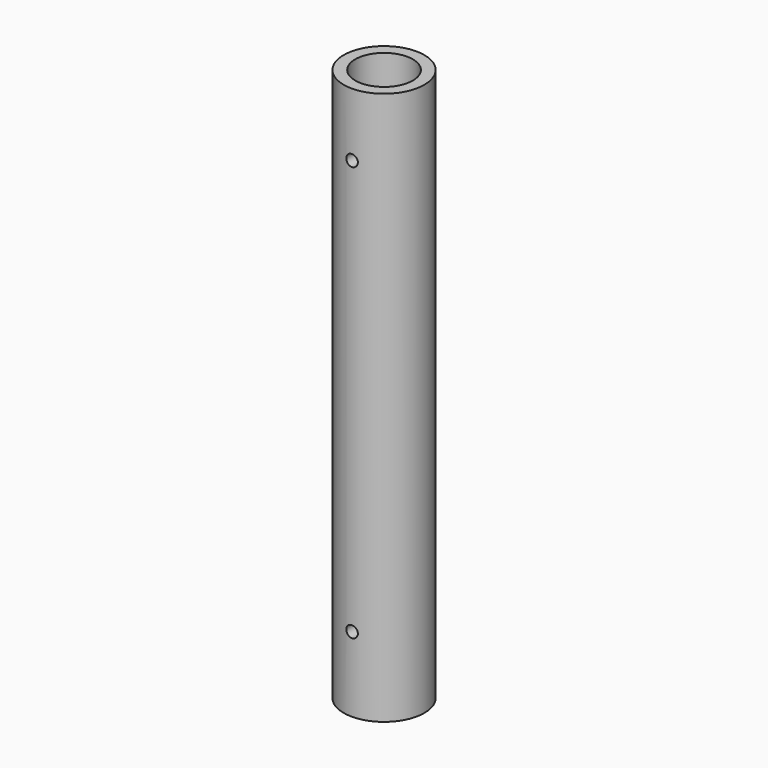
from build123d import *

# Parameters (mm, degrees)
F0_R     = 44.45
F0_R_2   = 31.75
F1_DEPTH = 609.6
F2_R     = 6.35
F3_DEPTH = 44.451
F4_DEPTH = 44.451


with BuildPart() as f1:
    # F0 (on Top) → F1 (new body)
    with BuildSketch(Plane.XY):
        Circle(F0_R)
        Circle(F0_R_2, mode=Mode.SUBTRACT)
    extrude(amount=F1_DEPTH)

    # F2 (on Front) → F3 (cut, through all)
    with BuildSketch(Plane.XZ):
        with Locations((0, 539.75)):
            Circle(F2_R)
        with Locations((0, 82.55)):
            Circle(F2_R)
    extrude(amount=F3_DEPTH, mode=Mode.SUBTRACT)

    # F2 (on Front) → F4 (cut, through all)
    with BuildSketch(Plane.XZ):
        with Locations((0, 539.75)):
            Circle(F2_R)
        with Locations((0, 82.55)):
            Circle(F2_R)
    extrude(amount=-F4_DEPTH, mode=Mode.SUBTRACT)


solid = f1.part
